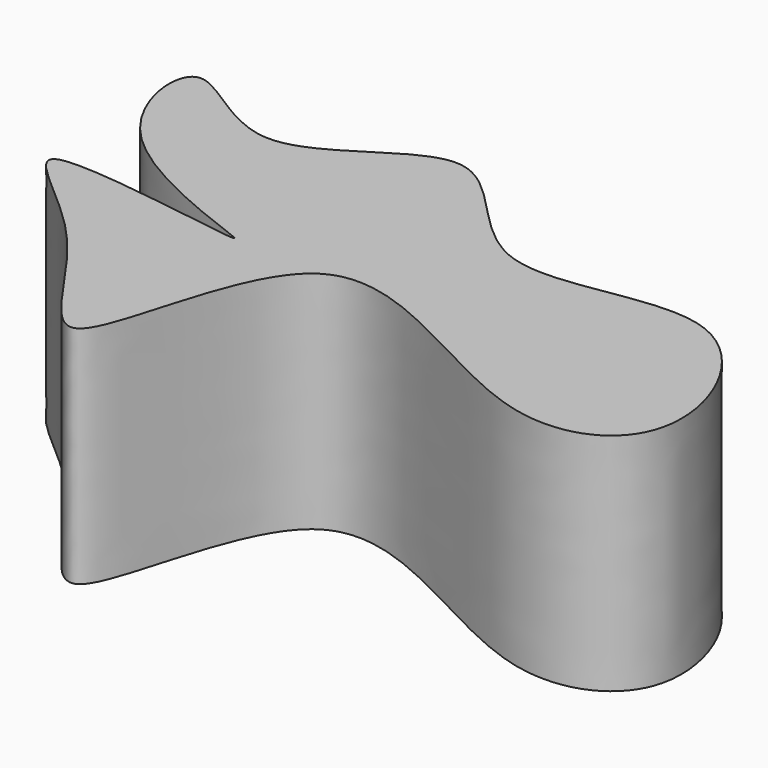
from build123d import *

# Parameters (mm, degrees)
F1_DEPTH = 152.4


with BuildPart() as f1:
    # F0 (on Top) → F1 (new body)
    with BuildSketch(Plane.XY):
        with BuildLine():
            add(Edge.make_bspline(
                [(-159.4889134427, 116.1681179665), (-125.1293229407, 115.2448768139), (-55.8608781339, 203.2274129718), (16.1357210558, 48.8569531231), (167.338206421, 133.4228974991), (238.8130553355, -22.4779933763), (130.6386933533, -75.9419192913), (-68.5297550953, 97.7550522566), (-90.4749539588, -186.6223628153), (-159.2353892508, -28.1267301542), (-295.6664521879, 51.2043216319), (-11.6528701617, -4.8561608901), (-236.9800085649, 53.1968089488), (-248.3346534019, 184.5164932199), (-189.2786114362, 116.9685662462), (-159.4889134427, 116.1681179665)],
                knots=[0, 0, 0, 0, 0.0747418226, 0.1512279952, 0.234545628, 0.3126754326, 0.378260939, 0.4777957457, 0.5646171115, 0.6404800886, 0.7078448837, 0.7906356346, 0.871939877, 0.9351989855, 1, 1, 1, 1], degree=3))
        make_face()
    extrude(amount=F1_DEPTH)


solid = f1.part
